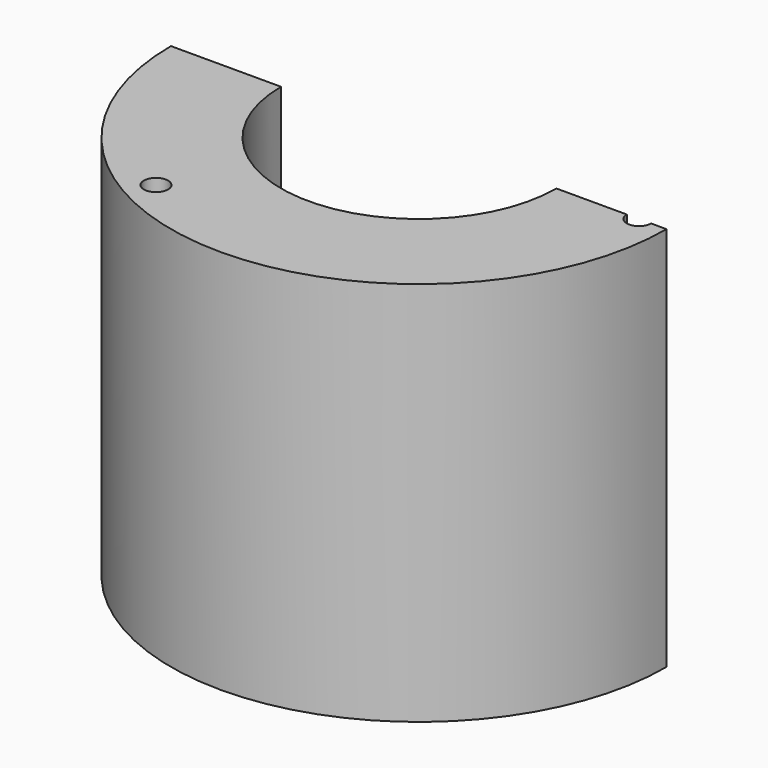
from build123d import *

# Parameters (mm, degrees)
F0_R      = 22.5
F1_DEPTH  = 35
F2_R      = 18
F3_DEPTH  = 8
F5_D      = 25
F5_DEPTH  = 20
F5_TIP    = 7.5107577378
F6_D      = 20
F8_D      = 2.2
F8_DEPTH  = 15
F8_TIP    = 0.6609466809
F9_W      = 60.0066725165
F9_H      = 50.9474342689
F10_DEPTH = 25


with BuildPart() as f1:
    # F0 (on Top) → F1 (new body)
    with BuildSketch(Plane.XY):
        Circle(F0_R)
    extrude(amount=F1_DEPTH)

    # F2 (on face) → F3 (cut)
    with BuildSketch(Plane(origin=(0, 0, 0), x_dir=(1, 0, 0), z_dir=(0, 0, -1))):
        Circle(F2_R)
    extrude(amount=-F3_DEPTH, mode=Mode.SUBTRACT)

    # F5
    with Locations(Plane.XY.offset(35)):
        with Locations((0, 0)):
            Hole(F5_D / 2, depth=F5_DEPTH)
            with Locations((0, 0, -(F5_DEPTH + F5_TIP / 2))):  # 118° drill point
                Cone(0, F5_D / 2, F5_TIP, mode=Mode.SUBTRACT)

    # F6 (through all)
    with Locations(Plane.XY.offset(35)):
        with Locations((0, 0)):
            Hole(F6_D / 2)

    # F8
    with Locations(Plane.XY.offset(35)):
        with Locations((20, 0), (-10, 17.3205080757), (-10, -17.3205080757)):
            Hole(F8_D / 2, depth=F8_DEPTH)
            with Locations((0, 0, -(F8_DEPTH + F8_TIP / 2))):  # 118° drill point
                Cone(0, F8_D / 2, F8_TIP, mode=Mode.SUBTRACT)

    # F9 (on Front) → F10 (cut)
    with BuildSketch(Plane.XZ):
        with Locations((-0.6993999705, 19.8549819179)):
            Rectangle(F9_W, F9_H)
    extrude(amount=-F10_DEPTH, mode=Mode.SUBTRACT)


solid = f1.part
